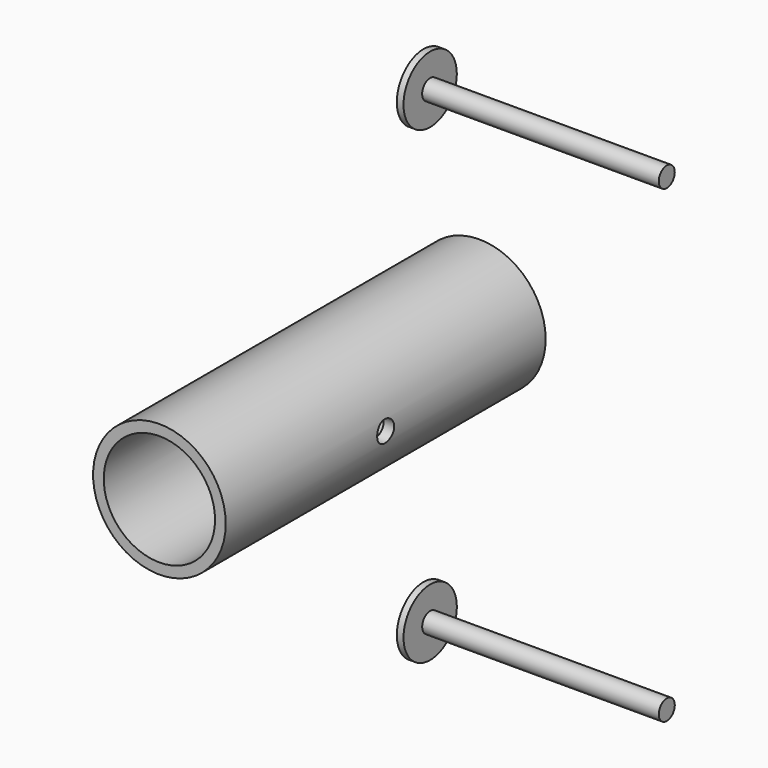
from build123d import *

# Parameters (mm, degrees)
F0_R      = 9.95
F0_R_2    = 8.35
F1_DEPTH  = 60
F0_R_3    = 5.75
F2_DEPTH  = 1
F3_R      = 1.6
F4_DEPTH  = 9.951
F5_R      = 1.6
F6_DEPTH  = 9.951
F7_R      = 5
F7_R_2    = 1.5
F8_DEPTH  = 1
F9_DEPTH  = 36.5
F10_R     = 1.5
F11_DEPTH = 36.5
F10_R_2   = 5
F12_DEPTH = 1


with BuildPart() as f1:
    # F0 (on Front) → F1 (new body)
    with BuildSketch(Plane.XZ):
        Circle(F0_R)
        Circle(F0_R_2, mode=Mode.SUBTRACT)
    extrude(amount=F1_DEPTH)

    # F0 (on Front) → F2 (join)
    with BuildSketch(Plane.XZ):
        Circle(F0_R_2)
        Circle(F0_R_3, mode=Mode.SUBTRACT)
    extrude(amount=F2_DEPTH)

    # F3 (on Right) → F4 (cut, through all)
    with BuildSketch(Plane.YZ):
        with Locations((-30, 0)):
            Circle(F3_R)
    extrude(amount=-F4_DEPTH, mode=Mode.SUBTRACT)

    # F5 (on Right) → F6 (cut, through all)
    with BuildSketch(Plane.YZ):
        with Locations((-30, 0)):
            Circle(F5_R)
    extrude(amount=F6_DEPTH, mode=Mode.SUBTRACT)


with BuildPart() as f8:
    # F7 (on Right) → F8 (new body)
    with BuildSketch(Plane.YZ):
        with Locations((-10.469654, -36.052026)):
            Circle(F7_R)
        with Locations((-10.469654, -36.052026)):
            Circle(F7_R_2, mode=Mode.SUBTRACT)
        with Locations((-10.469654, -36.052026)):
            Circle(F7_R_2)
    extrude(amount=F8_DEPTH)


with BuildPart() as f9:
    # F7 (on Right) → F9 (new body)
    with BuildSketch(Plane.YZ):
        with Locations((-10.469654, -36.052026)):
            Circle(F7_R_2)
    extrude(amount=F9_DEPTH)


with BuildPart() as f11:
    # F10 (on Right) → F11 (new body)
    with BuildSketch(Plane.YZ):
        with Locations((-10.474491, 34.335879)):
            Circle(F10_R)
    extrude(amount=F11_DEPTH)

    # F10 (on Right) → F12 (join)
    with BuildSketch(Plane.YZ):
        with Locations((-10.474491, 34.335879)):
            Circle(F10_R_2)
        with Locations((-10.474491, 34.335879)):
            Circle(F10_R, mode=Mode.SUBTRACT)
    extrude(amount=F12_DEPTH)


solid = Compound([f1.part, f8.part, f9.part, f11.part])
